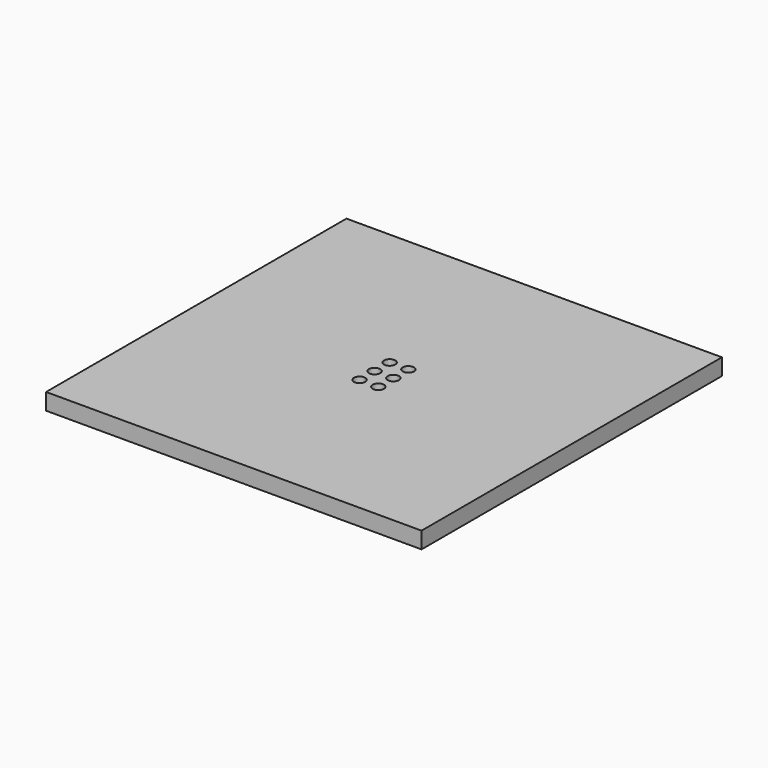
from build123d import *

# Parameters (mm, degrees)
F0_W     = 50
F0_H     = 50
F0_R     = 0.75
F1_DEPTH = 1.2
F2_W     = 50
F2_H     = 50
F2_R     = 1
F3_DEPTH = 1


with BuildPart() as f1:
    # F0 (on Top) → F1 (new body)
    with BuildSketch(Plane.XY):
        Rectangle(F0_W, F0_H)
        with Locations((-1.25, -2.5)):
            Circle(F0_R, mode=Mode.SUBTRACT)
        with Locations((1.25, -2.5)):
            Circle(F0_R, mode=Mode.SUBTRACT)
        with Locations((-1.25, 0)):
            Circle(F0_R, mode=Mode.SUBTRACT)
        with Locations((-1.25, 2.5)):
            Circle(F0_R, mode=Mode.SUBTRACT)
        with Locations((1.25, 0)):
            Circle(F0_R, mode=Mode.SUBTRACT)
        with Locations((1.25, 2.5)):
            Circle(F0_R, mode=Mode.SUBTRACT)
    extrude(amount=F1_DEPTH)

    # F2 (on face) → F3 (join)
    with BuildSketch(Plane(origin=(0, 0, 0), x_dir=(1, 0, 0), z_dir=(0, 0, -1))):
        Rectangle(F2_W, F2_H)
        with Locations((-1.25, -2.5)):
            Circle(F2_R, mode=Mode.SUBTRACT)
        with Locations((1.25, -2.5)):
            Circle(F2_R, mode=Mode.SUBTRACT)
        with Locations((-1.25, 0)):
            Circle(F2_R, mode=Mode.SUBTRACT)
        with Locations((-1.25, 2.5)):
            Circle(F2_R, mode=Mode.SUBTRACT)
        with Locations((1.25, 0)):
            Circle(F2_R, mode=Mode.SUBTRACT)
        with Locations((1.25, 2.5)):
            Circle(F2_R, mode=Mode.SUBTRACT)
    extrude(amount=F3_DEPTH)


solid = f1.part
